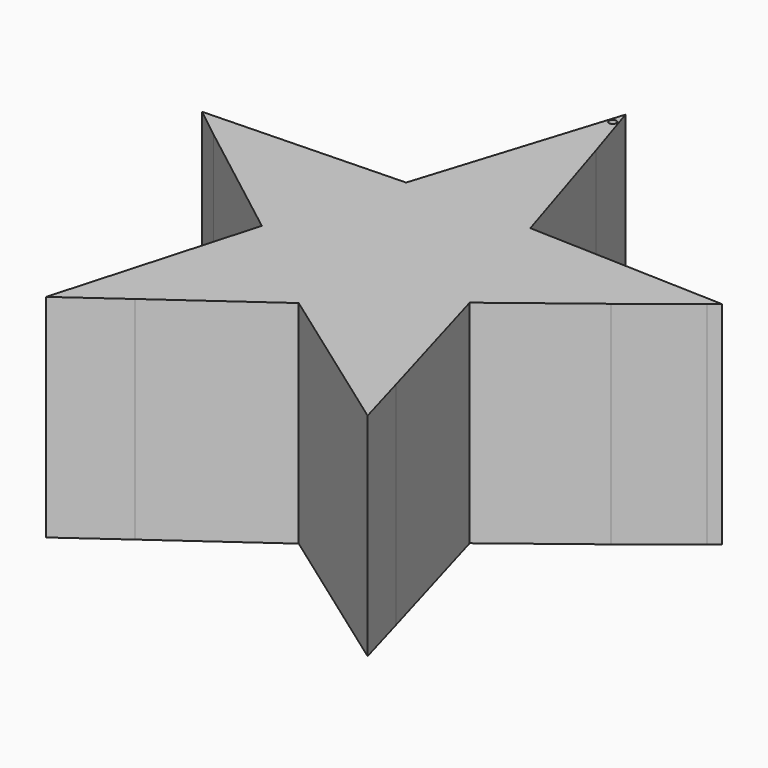
from build123d import *

# Parameters (mm, degrees)
F0_R     = 0.42604
F1_DEPTH = 25.4


with BuildPart() as f1:
    # F0 (on Top) → F1 (new body)
    with BuildSketch(Plane.XY):
        Polygon((-6.730784, 46.024297), (-30.350503, 46.82928), (-35.400603, 62.955163), (-37.781402, 70.38483), (-39.518654, 64.883538), (-45.212973, 46.787187), (-69.100156, 46.063334), (-65.43263, 43.167919), (-50.279953, 31.489737), (-57.056352, 7.620964), (-50.279953, 12.494915), (-37.801836, 21.422448), (-18.49906, 7.620964), (-20.38108, 14.232164), (-25.351545, 31.489737), (-14.87979, 39.567057), (-7.840211, 45.145191), align=None)
        with Locations((-37.781402, 68.470716)):
            Circle(F0_R, mode=Mode.SUBTRACT)
    extrude(amount=F1_DEPTH)


solid = f1.part
